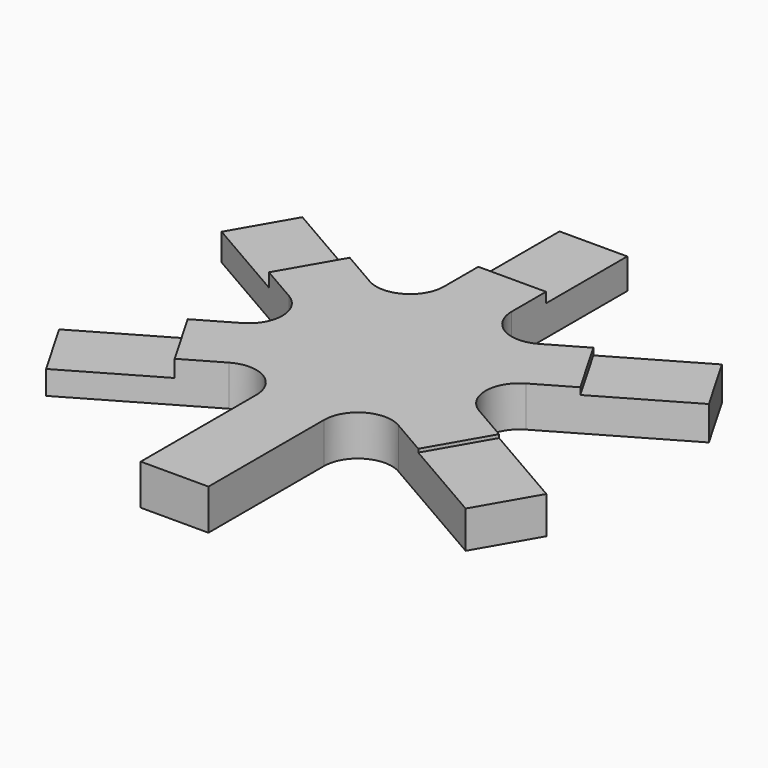
from build123d import *

# Parameters (mm, degrees)
F1_DEPTH = 6
F2_R     = 5
F4_DEPTH = 2.5
F5_DEPTH = 2
F3_W     = 10
F3_H     = 15
F6_DEPTH = 1.5
F7_DEPTH = 1
F8_DEPTH = 0.5


with BuildPart() as f1:
    # F0 (on Top) → F1 (new body)
    with BuildSketch(Plane.XY):
        Polygon((5, 38.660254), (-5, 38.660254), (-5, 8.660254), (-30.980762, 23.660254), (-35.980762, 15), (-10, 0), (-35.980762, -15), (-30.980762, -23.660254), (-5, -8.660254), (-5, -38.660254), (5, -38.660254), (5, -8.660254), (30.980762, -23.660254), (35.980762, -15), (10, 0), (35.980762, 15), (30.980762, 23.660254), (5, 8.660254), align=None)
    extrude(amount=F1_DEPTH)

    # F2
    f2_edges = [f1.edges().sort_by_distance(p)[0] for p in [
        (-5, 8.660254, 3),
        (5, 8.660254, 3),
        (10, 0, 3),
        (5, -8.660254, 3),
        (-5, -8.660254, 3),
        (-10, 0, 3),
    ]]
    fillet(f2_edges, radius=F2_R)

    # F3 (on face) → F4 (cut)
    with BuildSketch(Plane.XY.offset(6)):
        Polygon((-35.980762, -15), (-30.980762, -23.660254), (-17.990381, -16.160254), (-22.990381, -7.5), align=None)
    extrude(amount=-F4_DEPTH, mode=Mode.SUBTRACT)

    # F3 (on face) → F5 (cut)
    with BuildSketch(Plane.XY.offset(6)):
        Polygon((-35.980762, 15), (-22.990381, 7.5), (-17.990381, 16.160254), (-30.980762, 23.660254), align=None)
    extrude(amount=-F5_DEPTH, mode=Mode.SUBTRACT)

    # F3 (on face) → F6 (cut)
    with BuildSketch(Plane.XY.offset(6)):
        with Locations((0, 31.160254)):
            Rectangle(F3_W, F3_H)
    extrude(amount=-F6_DEPTH, mode=Mode.SUBTRACT)

    # F3 (on face) → F7 (cut)
    with BuildSketch(Plane.XY.offset(6)):
        Polygon((17.990381, 16.160254), (22.990381, 7.5), (35.980762, 15), (30.980762, 23.660254), align=None)
    extrude(amount=-F7_DEPTH, mode=Mode.SUBTRACT)

    # F3 (on face) → F8 (cut)
    with BuildSketch(Plane.XY.offset(6)):
        Polygon((22.990381, -7.5), (17.990381, -16.160254), (30.980762, -23.660254), (35.980762, -15), align=None)
    extrude(amount=-F8_DEPTH, mode=Mode.SUBTRACT)


solid = f1.part
